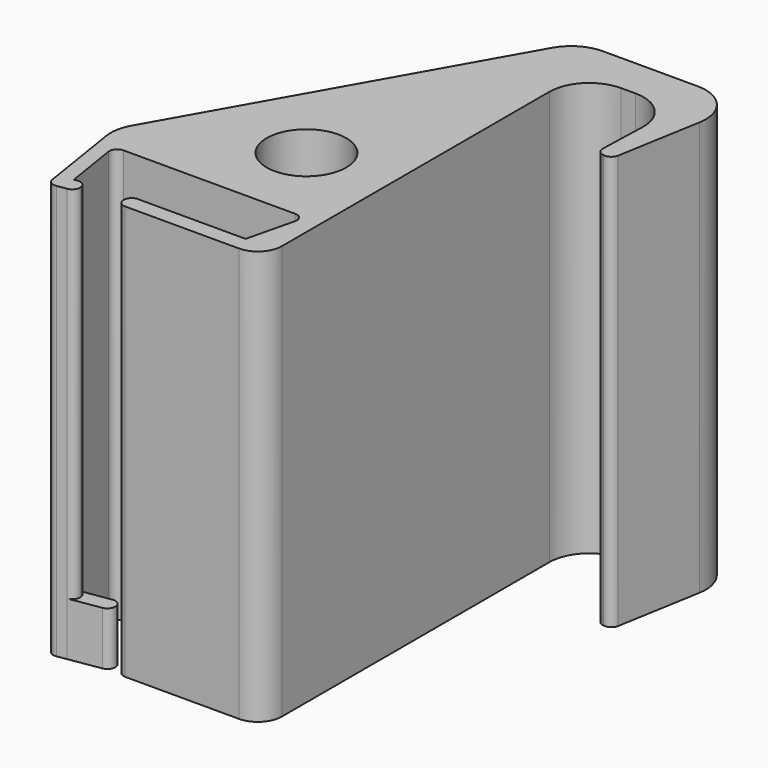
from build123d import *

# Parameters (mm, degrees)
F0_R     = 6.35
F1_DEPTH = 66.04
F3_DEPTH = 8.509


with BuildPart() as f1:
    # F0 (on Top) → F1 (new body)
    with BuildSketch(Plane.XY):
        with BuildLine():
            ThreePointArc((-22.546312, -25.022118), (-22.038436, -25.850898), (-21.093276, -26.077811))
            Line((-21.093276, -26.077811), (-19.546685, -25.832855))
            ThreePointArc((-19.546685, -25.832855), (-18.717905, -25.324978), (-18.490992, -24.379819))
            ThreePointArc((-18.490992, -24.379819), (-18.998869, -23.551039), (-19.944028, -23.324126))
            Line((-19.944028, -23.324126), (-20.432482, -23.40149))
            Line((-20.432482, -23.40149), (-21.789241, -14.835248))
            ThreePointArc((-21.789241, -14.835248), (-21.500592, -13.811777), (-20.534877, -13.366576))
            Line((-20.534877, -13.366576), (6.84281, -13.366576))
            ThreePointArc((6.84281, -13.366576), (7.841192, -13.851634), (8.076939, -14.936285))
            Line((8.076939, -14.936285), (6.237518, -22.510576))
            Line((6.237518, -22.510576), (-10.92632, -22.510576))
            ThreePointArc((-10.92632, -22.510576), (-11.824346, -22.882551), (-12.19632, -23.780576))
            ThreePointArc((-12.19632, -23.780576), (-11.824346, -24.678602), (-10.92632, -25.050576))
            Line((-10.92632, -25.050576), (7.188144, -25.050576))
            ThreePointArc((7.188144, -25.050576), (9.882221, -23.934653), (10.998144, -21.240576))
            Line((10.998144, -21.240576), (10.998144, 32.099424))
            ThreePointArc((10.998144, 32.099424), (12.858016, 36.589552), (17.348144, 38.449424))
            Line((17.348144, 38.449424), (19.672829, 38.449424))
            ThreePointArc((19.672829, 38.449424), (24.237179, 36.514082), (26.0193, 31.887757))
            Line((26.0193, 31.887757), (25.766103, 24.296054))
            ThreePointArc((25.766103, 24.296054), (26.040588, 23.464256), (26.788287, 23.007993))
            Line((26.788287, 23.007993), (26.945018, 22.976903))
            ThreePointArc((26.945018, 22.976903), (27.911116, 23.175751), (28.443527, 24.006066))
            Line((28.443527, 24.006066), (30.755673, 37.366601))
            ThreePointArc((30.755673, 37.366601), (29.356579, 42.538836), (24.498677, 44.799424))
            Line((24.498677, 44.799424), (9.376487, 44.799424))
            ThreePointArc((9.376487, 44.799424), (6.177033, 43.934494), (3.849171, 41.575328))
            Line((3.849171, 41.575328), (-23.920269, -7.527419))
            ThreePointArc((-23.920269, -7.527419), (-24.641712, -9.523939), (-24.664773, -11.646682))
            Line((-24.664773, -11.646682), (-22.546312, -25.022118))
        make_face()
        with Locations((-2.336856, 0.349424)):
            Circle(F0_R, mode=Mode.SUBTRACT)
    extrude(amount=F1_DEPTH)

    # F2 (on face) → F3 (join)
    with BuildSketch(Plane(origin=(0, 0, 0), x_dir=(1, 0, 0), z_dir=(0, 0, -1))):
        with BuildLine():
            ThreePointArc((-19.546685, 25.832855), (-18.490992, 24.379819), (-19.944028, 23.324126))
            Line((-19.944028, 23.324126), (-14.965174, 22.535553))
            ThreePointArc((-14.965174, 22.535553), (-14.020015, 22.762466), (-13.512138, 23.591246))
            ThreePointArc((-13.512138, 23.591246), (-13.739051, 24.536405), (-14.567831, 25.044282))
            Line((-14.567831, 25.044282), (-19.546685, 25.832855))
        make_face()
    extrude(amount=-F3_DEPTH)


solid = f1.part
